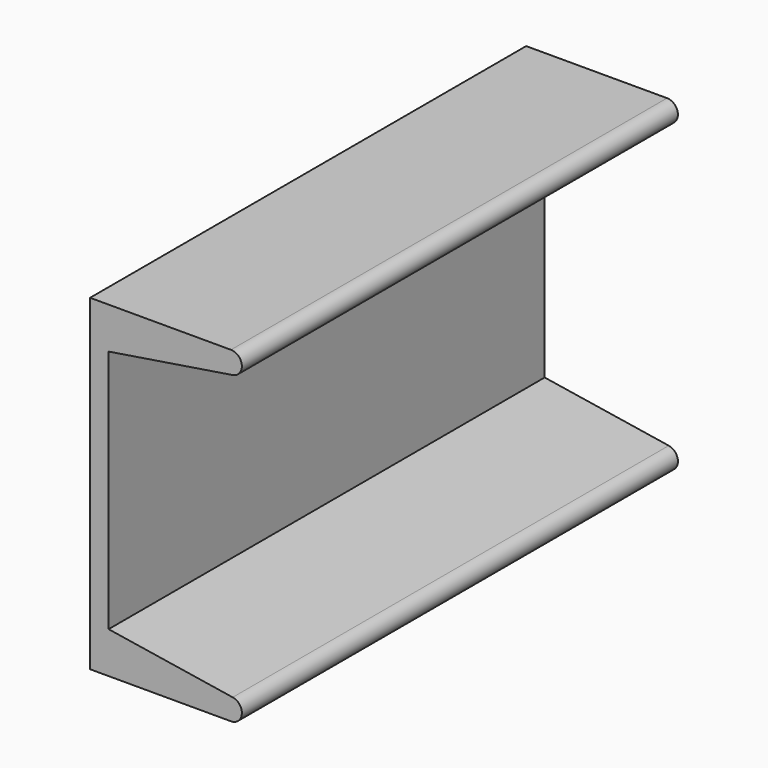
from build123d import *

# Parameters (mm, degrees)
F1_DEPTH = 127


with BuildPart() as f1:
    # F0 (on Front) → F1 (new body)
    with BuildSketch(Plane.XZ):
        with BuildLine():
            Line((0, 76.2), (0, 38.1))
            Line((0, 38.1), (0, 0))
            Line((0, 0), (32.82644, 0))
            ThreePointArc((32.82644, 0), (35.35861, 2.340714), (33.223784, 5.048728))
            Line((33.223784, 5.048728), (4.318, 9.626955))
            Line((4.318, 9.626955), (4.318, 38.1))
            Line((4.318, 38.1), (4.318, 66.573045))
            Line((4.318, 66.573045), (33.223784, 71.151272))
            ThreePointArc((33.223784, 71.151272), (35.35861, 73.859286), (32.82644, 76.2))
            Line((32.82644, 76.2), (0, 76.2))
        make_face()
    extrude(amount=F1_DEPTH)


solid = f1.part
